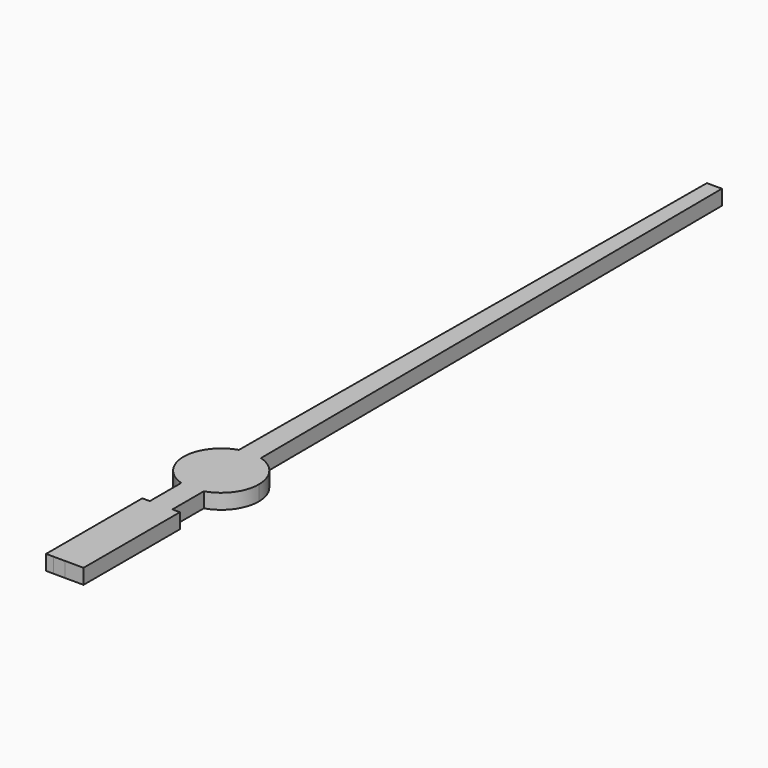
from build123d import *

# Parameters (mm, degrees)
F1_DEPTH = 2
F2_R     = 2.5
F4_DEPTH = 1


with BuildPart() as f1:
    # F0 (on Top) → F1 (new body)
    with BuildSketch(Plane.XY):
        with BuildLine():
            ThreePointArc((1.5, -4.7696960071), (4.0311288741, -2.9580398915), (5, 0))
            ThreePointArc((5, 0), (4.0220831688, 2.9703277569), (1.4708612066, 4.7787621107))
            Line((1.4708612066, 4.7787621107), (1.5, 0))
            Line((1.5, 0), (1.5, -4.7696960071))
        make_face()
        with BuildLine():
            Line((1.5, 0), (1.4708612066, 4.7787621107))
            ThreePointArc((1.4708612066, 4.7787621107), (0.7437033839, 4.9443811824), (0, 5))
            Line((0, 5), (0, 0))
            Line((0, 0), (1.5, 0))
        make_face()
        with BuildLine():
            ThreePointArc((0, 5), (0.7437033839, 4.9443811824), (1.4708612066, 4.7787621107))
            Line((1.4708612066, 4.7787621107), (1, 82))
            Line((1, 82), (0, 82))
            Line((0, 82), (0, 5))
        make_face()
        with BuildLine():
            Line((1.5, -9.9886260709), (1.5, -4.7696960071))
            ThreePointArc((1.5, -4.7696960071), (0, -5), (-1.5, -4.7696960071))
            Line((-1.5, -4.7696960071), (-1.5, -9.9886260709))
            Line((-1.5, -9.9886260709), (1.5, -9.9886260709))
        make_face()
        with BuildLine():
            ThreePointArc((-1.5, -4.7696960071), (0, -5), (1.5, -4.7696960071))
            Line((1.5, -4.7696960071), (1.5, 0))
            Line((1.5, 0), (0, 0))
            Line((0, 0), (-1.5, 0))
            Line((-1.5, 0), (-1.5, -4.7696960071))
        make_face()
        with BuildLine():
            Line((0, 0), (0, 5))
            ThreePointArc((0, 5), (-0.7437033839, 4.9443811824), (-1.4708612066, 4.7787621107))
            Line((-1.4708612066, 4.7787621107), (-1.5, 0))
            Line((-1.5, 0), (0, 0))
        make_face()
        with BuildLine():
            ThreePointArc((-1.4708612066, 4.7787621107), (-0.7437033839, 4.9443811824), (0, 5))
            Line((0, 5), (0, 82))
            Line((0, 82), (-1, 82))
            Line((-1, 82), (-1.4708612066, 4.7787621107))
        make_face()
        with BuildLine():
            ThreePointArc((-1.4708612066, 4.7787621107), (-4.9999767184, 0.0152583052), (-1.5, -4.7696960071))
            Line((-1.5, -4.7696960071), (-1.5, 0))
            Line((-1.5, 0), (-1.4708612066, 4.7787621107))
        make_face()
        Polygon((2.4999741266, -9.9886260709), (1.5, -9.9886260709), (1.5, -26), (0, -26), (2.4999741266, -26.0113739292), align=None)
        Polygon((1.5, -26), (1.5, -9.9886260709), (-1.5, -9.9886260709), (-1.5, -25.9931755719), (0, -26), align=None)
        Polygon((-1.5, -25.9931755719), (-1.5, -9.9886260709), (-2.5000258734, -9.9886260709), (-2.4999741266, -25.9886260708), align=None)
        Polygon((0, -26), (-1.5, -25.9931755719), (-1.5, -26), align=None)
    extrude(amount=F1_DEPTH)

    # F2 (on face) → F4 (cut)
    with BuildSketch(Plane(origin=(0, 0, 0), x_dir=(1, 0, 0), z_dir=(0, 0, -1))):
        Circle(F2_R)
    extrude(amount=-F4_DEPTH, mode=Mode.SUBTRACT)


solid = f1.part
